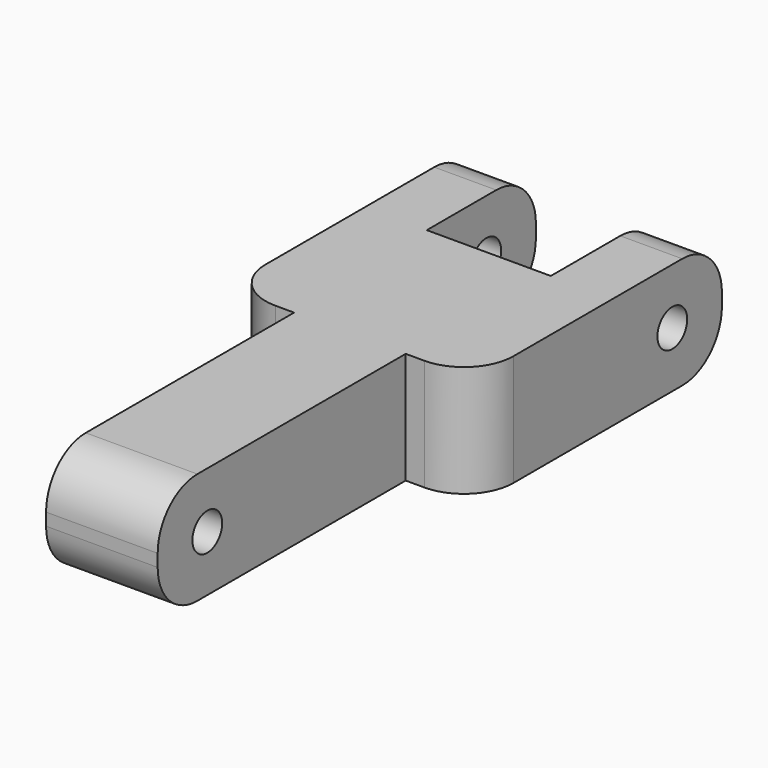
from build123d import *

# Parameters (mm, degrees)
F1_DEPTH = 4.5
F2_R     = 1.5
F3_DEPTH = 20.001
F4_R     = 4


with BuildPart() as f1:
    # F0 (on Top) → F1 (new body, symmetric)
    with BuildSketch(Plane.XY):
        Polygon((-5, 25), (-10, 25), (-10, 0), (-4.5, 0), (-4.5, -25), (4.5, -25), (4.5, 0), (10, 0), (10, 25), (5, 25), (5, 14), (-5, 14), align=None)
    extrude(amount=F1_DEPTH, both=True)

    # F2 (on face) → F3 (cut, through all)
    with BuildSketch(Plane.YZ.offset(10)):
        with Locations((20, 0)):
            Circle(F2_R)
        with Locations((-20, 0)):
            Circle(F2_R)
    extrude(amount=-F3_DEPTH, mode=Mode.SUBTRACT)

    # F4
    f4_edges = [f1.edges().sort_by_distance(p)[0] for p in [
        (-7.5, 25, 4.5),
        (10, 0, 0),
        (-10, 0, 0),
        (0, -25, 4.5),
        (0, -25, -4.5),
        (-7.5, 25, -4.5),
        (7.5, 25, -4.5),
        (7.5, 25, 4.5),
    ]]
    fillet(f4_edges, radius=F4_R)


solid = f1.part
